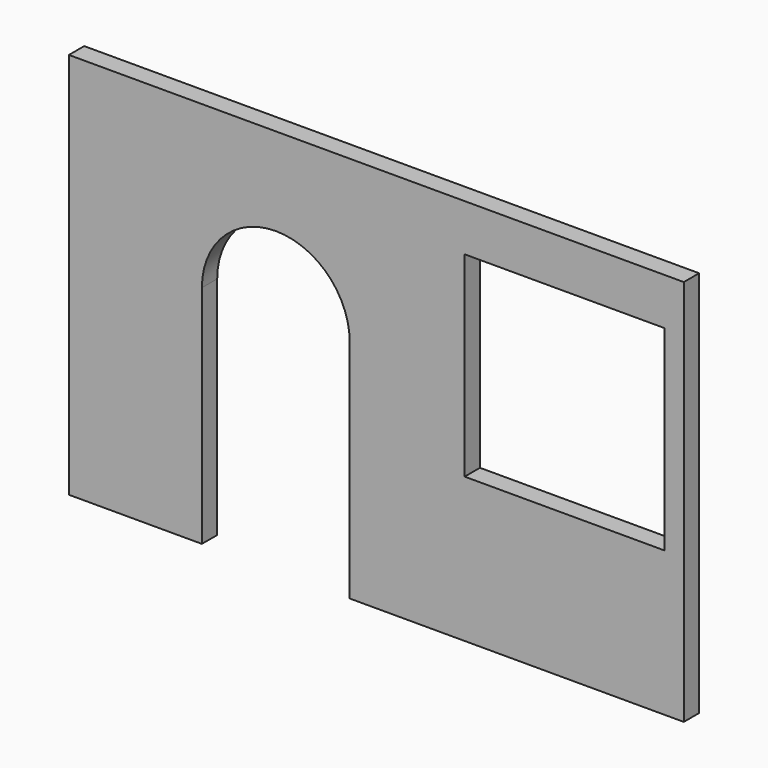
from build123d import *

# Parameters (mm, degrees)
F0_W     = 1193.8
F0_H     = 1168.4
F1_DEPTH = 114.3


with BuildPart() as f1:
    # F0 (on Front) → F1 (new body)
    with BuildSketch(Plane.XZ):
        with BuildLine():
            Line((1820.058993, 2277.802728), (-1850.241007, 2277.802728))
            Line((-1850.241007, 2277.802728), (-1850.241007, -33.597272))
            Line((-1850.241007, -33.597272), (-1056.491007, -33.597272))
            Line((-1056.491007, -33.597272), (-1056.491007, 1312.602728))
            ThreePointArc((-1056.491007, 1312.602728), (-615.166007, 1753.927728), (-173.841007, 1312.602728))
            Line((-173.841007, 1312.602728), (-173.841007, -33.597272))
            Line((-173.841007, -33.597272), (1820.058993, -33.597272))
            Line((1820.058993, -33.597272), (1820.058993, 2277.802728))
        make_face()
        with Locations((1108.858993, 1414.202728)):
            Rectangle(F0_W, F0_H, mode=Mode.SUBTRACT)
    extrude(amount=F1_DEPTH)


solid = f1.part
